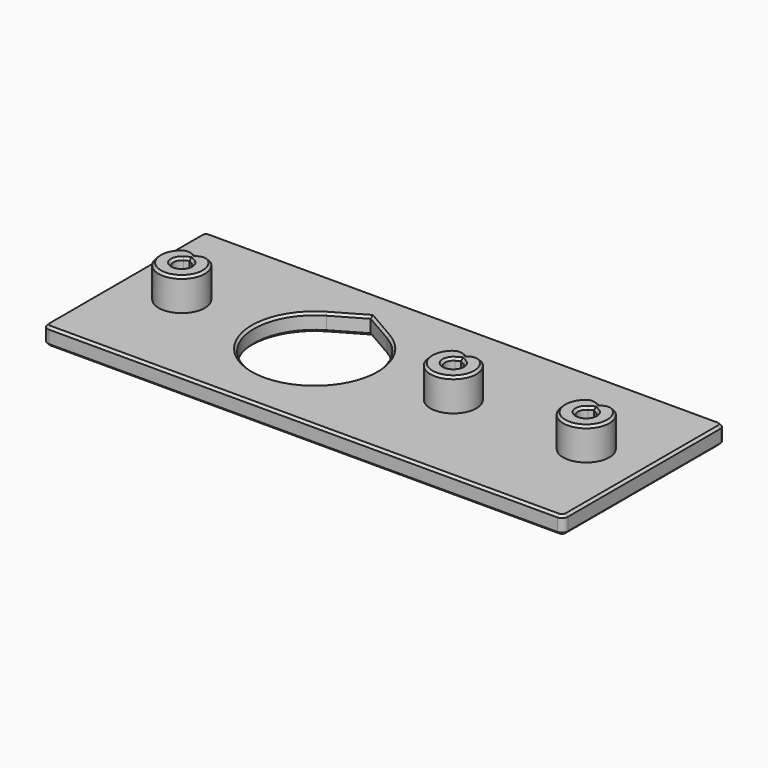
from build123d import *

# Parameters (mm, degrees)
SKETCH_W                = 90
SKETCH_H                = 35
PAD_DEPTH               = 3
SKETCH001_R             = 10.5
HOLE_DEPTH              = 25
HOLE_TEARDROPS_DEPTH    = 25
SKETCH002_R             = 4
PAD001_DEPTH            = 5.6
POCKET_DEPTH            = 5.6
SKETCH004_R             = 1.45
HOLE001_DEPTH           = 25
HOLE001_TEARDROPS_DEPTH = 25
FILLET_R                = 2
CHAMFER_SIZE            = 0.4
FILLET001_R             = 1
CHAMFER001_SIZE         = 0.4


with BuildPart() as part:
    # Sketch → Pad (new body)
    with BuildSketch(Plane.XY):
        Rectangle(SKETCH_W, SKETCH_H)
    extrude(amount=PAD_DEPTH)

    # Sketch001 (on Face6 of Pad) → Hole (cut)
    with BuildSketch(Plane.XY.offset(3)):
        with Locations((-12, 0)):
            Circle(SKETCH001_R)
    extrude(amount=-HOLE_DEPTH, mode=Mode.SUBTRACT)

    # Sketch001_Teardrops (on Sketch) → Hole_Teardrops (cut)
    with BuildSketch(Plane.XY.offset(3)):
        with BuildLine():
            ThreePointArc((-17.25, 9.093267), (-12, -10.5), (-6.75, 9.093267))
            Line((-6.75, 9.093267), (-12, 12.124356))
            Line((-17.25, 9.093267), (-12, 12.124356))
        make_face()
    extrude(amount=-HOLE_TEARDROPS_DEPTH, mode=Mode.SUBTRACT)

    # Sketch002 (on Face5 of Hole_Teardrops) → Pad001 (join)
    with BuildSketch(Plane.XY.offset(3)):
        with Locations((35, 0)):
            Circle(SKETCH002_R)
        with Locations((12, 0)):
            Circle(SKETCH002_R)
        with Locations((-35, 0)):
            Circle(SKETCH002_R)
    extrude(amount=PAD001_DEPTH)

    # Sketch003 (on Face13 of Pad001) → Pocket (cut)
    with BuildSketch(Plane.XY.offset(8.6)):
        Polygon((-35, 3), (-38.464102, 5), (-31.535898, 5), align=None)
        Polygon((12, 3), (8.535898, 5), (15.464102, 5), align=None)
        Polygon((38.464102, 5), (35, 3), (31.535898, 5), align=None)
    extrude(amount=-POCKET_DEPTH, mode=Mode.SUBTRACT)

    # Sketch004 (on Face17 of Pocket) → Hole001 (cut)
    with BuildSketch(Plane.XY.offset(8.6)):
        with Locations((-35, 0)):
            Circle(SKETCH004_R)
        with Locations((12, 0)):
            Circle(SKETCH004_R)
        with Locations((35, 0)):
            Circle(SKETCH004_R)
    extrude(amount=-HOLE001_DEPTH, mode=Mode.SUBTRACT)

    # Sketch004_Teardrops (on Sketch) → Hole001_Teardrops (cut)
    with BuildSketch(Plane.XY.offset(8.6)):
        with BuildLine():
            ThreePointArc((-35.725, 1.255737), (-35, -1.45), (-34.275, 1.255737))
            Line((-34.275, 1.255737), (-35, 1.674316))
            Line((-35.725, 1.255737), (-35, 1.674316))
        make_face()
        with BuildLine():
            ThreePointArc((11.275, 1.255737), (12, -1.45), (12.725, 1.255737))
            Line((12.725, 1.255737), (12, 1.674316))
            Line((11.275, 1.255737), (12, 1.674316))
        make_face()
        with BuildLine():
            ThreePointArc((34.275, 1.255737), (35, -1.45), (35.725, 1.255737))
            Line((35.725, 1.255737), (35, 1.674316))
            Line((34.275, 1.255737), (35, 1.674316))
        make_face()
    extrude(amount=-HOLE001_TEARDROPS_DEPTH, mode=Mode.SUBTRACT)

    # Fillet
    fillet_edges = [part.edges().sort_by_distance(p)[0] for p in [
        (36.334875, 3.770691, 5.8),
        (33.665125, 3.770691, 5.8),
        (13.334875, 3.770691, 5.8),
        (10.665125, 3.770691, 5.8),
        (-33.665125, 3.770691, 5.8),
        (-36.334875, 3.770691, 5.8),
    ]]
    fillet(fillet_edges, radius=FILLET_R)

    # Chamfer
    chamfer_edges = [part.edges().sort_by_distance(p)[0] for p in [
        (33.392214, -3.662653, 8.6),
        (10.392214, -3.662653, 8.6),
        (-36.607786, -3.662653, 8.6),
        (-35.725, -1.255737, 8.6),
        (11.275, -1.255737, 8.6),
        (34.275, -1.255737, 8.6),
    ]]
    chamfer(chamfer_edges, length=CHAMFER_SIZE)

    # Fillet001
    fillet001_edges = [part.edges().sort_by_distance(p)[0] for p in [
        (45, 17.5, 1.5),
        (-45, 17.5, 1.5),
        (-45, -17.5, 1.5),
        (45, -17.5, 1.5),
    ]]
    fillet(fillet001_edges, radius=FILLET001_R)

    # Chamfer001
    chamfer001_edges = [part.edges().sort_by_distance(p)[0] for p in [
        (0, 17.5, 0),
        (0, 17.5, 3),
        (-35.725, -1.255737, 0),
        (-17.25, -9.093267, 0),
        (-17.25, -9.093267, 3),
        (11.275, -1.255737, 0),
        (34.275, -1.255737, 0),
    ]]
    chamfer(chamfer001_edges, length=CHAMFER001_SIZE)


solid = part.part
